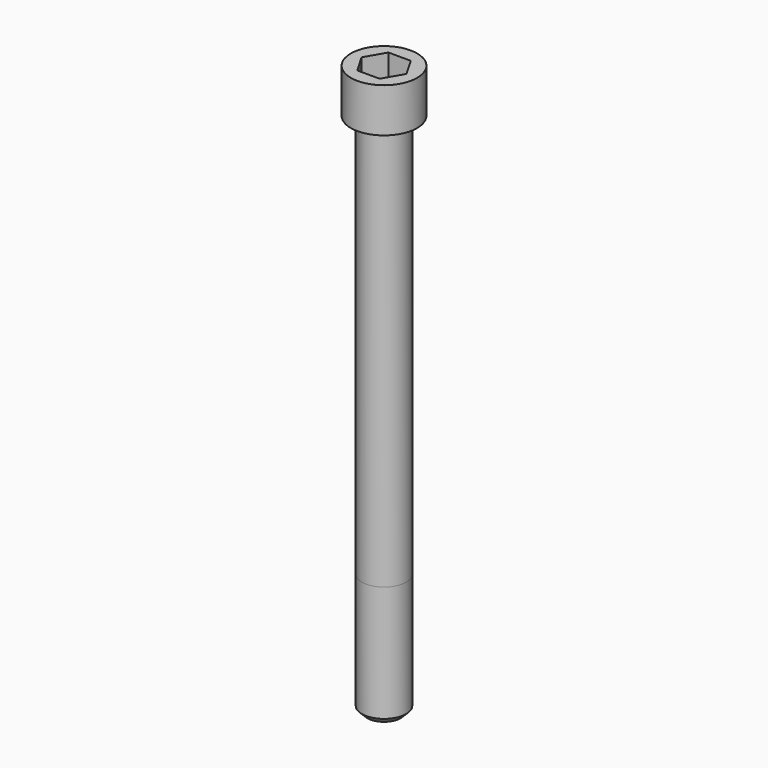
from build123d import *

# Parameters (mm, degrees)
POCKET_DEPTH = 14.08


with BuildPart() as part:
    # Sketch → Revolve (revolve)
    with BuildSketch(Plane.YZ):
        with BuildLine():
            Line((7.999, 0), (12, 0))
            Line((12, 0), (12, 15.97229))
            ThreePointArc((12, 15.97229), (11.991884, 15.991884), (11.97229, 16))
            Line((11.97229, 16), (0, 16))
            Line((0, -190), (0, 16))
            Line((6, -190), (0, -190))
            Line((8, -188), (6, -190))
            Line((8, -146), (8, -188))
            Line((7.999, 0), (8, -146))
        make_face()
    revolve(axis=Axis((0, 0, 0), (0, 0, 1)))

    # Sketch001 → Pocket (cut)
    with BuildSketch(Plane.XY.offset(16)):
        Polygon((8.129092, 0), (4.064546, 7.04), (-4.064546, 7.04), (-8.129092, 0), (-4.064546, -7.04), (4.064546, -7.04), align=None)
    extrude(amount=-POCKET_DEPTH, mode=Mode.SUBTRACT)


solid = part.part
